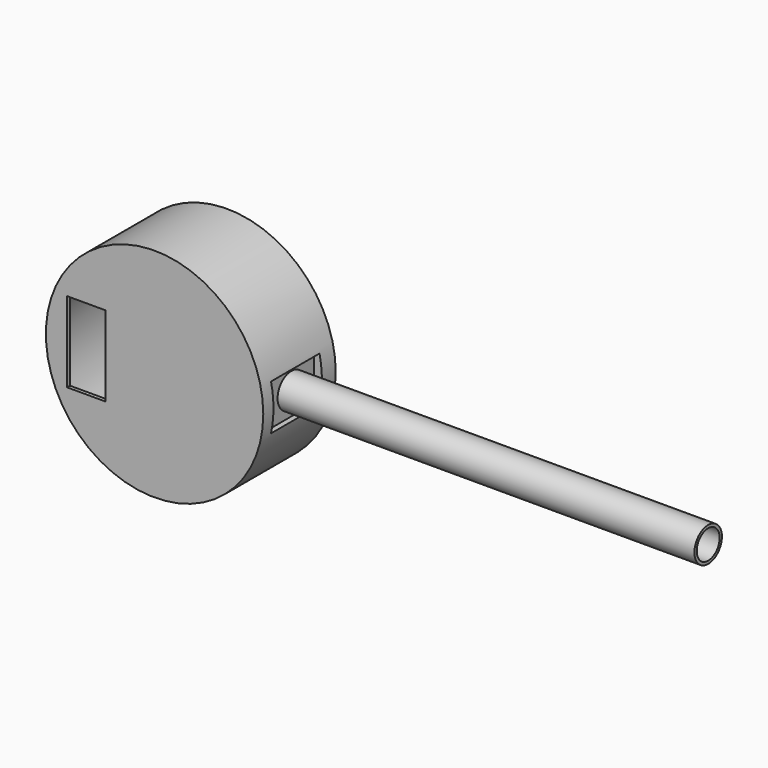
from build123d import *

# Parameters (mm, degrees)
F0_R      = 15.24
F1_DEPTH  = 12.7
F2_R      = 13.97
F3_DEPTH  = 12.192
F5_W      = 8.4936562926
F5_H      = 6.4059169963
F6_DEPTH  = 17.6276
F7_R      = 2.4085601445
F8_DEPTH  = 23.3426
F9_DEPTH  = 18.796
F10_R     = 2.0058104165
F11_DEPTH = 43.6118
F12_R     = 2.4085601445
F12_R_2   = 2.0058104165
F13_DEPTH = 25.4
F14_DEPTH = 16.1544
F15_DEPTH = 12.7762
F16_W     = 5.3624128923
F16_H     = 11.2610673532
F17_DEPTH = 25.4


with BuildPart() as f1:
    # F0 (on Front) → F1 (new body)
    with BuildSketch(Plane.XZ):
        Circle(F0_R)
    extrude(amount=F1_DEPTH)

    # F2 (on face) → F3 (cut)
    with BuildSketch(Plane(origin=(0, 0, 0), x_dir=(-1, 0, 0), z_dir=(0, 1, 0))):
        Circle(F2_R)
    extrude(amount=-F3_DEPTH, mode=Mode.SUBTRACT)

    # F5 (on offset) → F6 (cut)
    with BuildSketch(Plane.YZ.offset(31.75)):
        with Locations((-6.6680489108, 0)):
            Rectangle(F5_W, F5_H)
    extrude(amount=-F6_DEPTH, mode=Mode.SUBTRACT)

    # F7 (on offset) → F8 (join)
    with BuildSketch(Plane.YZ.offset(31.75)):
        with Locations((-6.3897143118, 0)):
            Circle(F7_R)
    extrude(amount=-F8_DEPTH)

    # F9 (add): a face of the model
    f9_faces = [f1.faces().sort_by_distance(p)[0] for p in [
        (31.75, -6.3897143118, 0),
    ]]
    extrude(f9_faces, amount=F9_DEPTH)

    # F10 (on face) → F11 (cut)
    with BuildSketch(Plane.YZ.offset(50.546)):
        with Locations((-6.3897143118, 0)):
            Circle(F10_R)
    extrude(amount=-F11_DEPTH, mode=Mode.SUBTRACT)

    # F12 (on face) → F13 (join)
    with BuildSketch(Plane.YZ.offset(50.546)):
        with Locations((-6.3897143118, 0)):
            Circle(F12_R)
        with Locations((-6.3897143118, 0)):
            Circle(F12_R_2, mode=Mode.SUBTRACT)
    extrude(amount=F13_DEPTH)

    # F14 (cut): a face of the model
    f14_faces = [f1.faces().sort_by_distance(p)[0] for p in [
        (75.946, -8.7301500879, 0),
    ]]
    extrude(f14_faces, amount=-F14_DEPTH, mode=Mode.SUBTRACT)

    # F15 (add): a face of the model
    f15_faces = [f1.faces().sort_by_distance(p)[0] for p in [
        (59.7916, -8.7301500879, 0),
    ]]
    extrude(f15_faces, amount=F15_DEPTH)

    # F16 (on face) → F17 (cut)
    with BuildSketch(Plane.XZ.offset(12.7)):
        with Locations((-9.5757367089, 0)):
            Rectangle(F16_W, F16_H)
    extrude(amount=-F17_DEPTH, mode=Mode.SUBTRACT)


solid = f1.part
